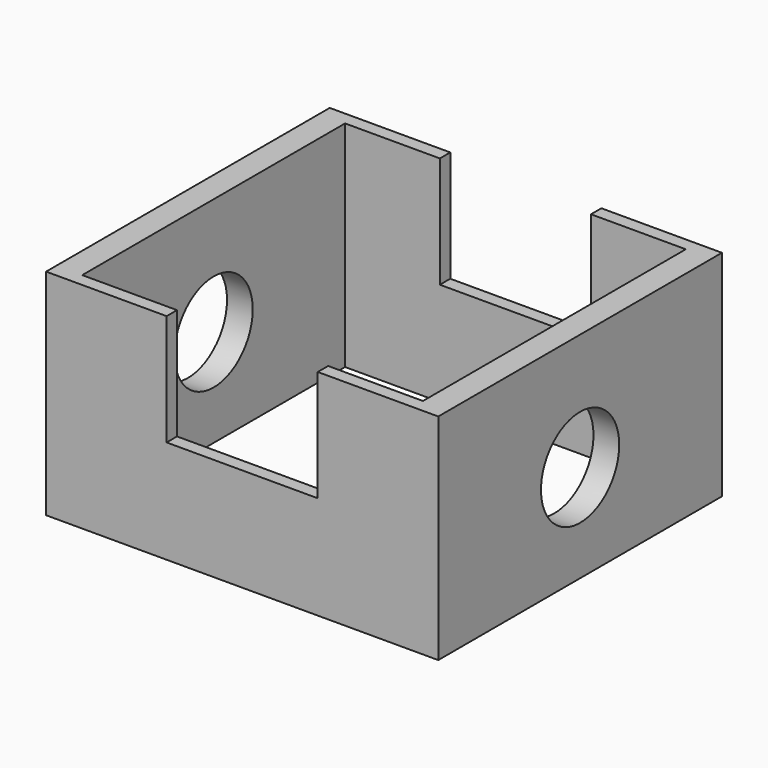
from build123d import *

# Parameters (mm, degrees)
F0_W     = 185.788676
F0_H     = 167.966946
F1_DEPTH = 101.6
F2_W     = 71.583546
F2_H     = 55.591479
F3_DEPTH = 635
F4_W     = 161.412612
F4_H     = 155.637712
F5_DEPTH = 1270
F6_R     = 23.160944
F7_DEPTH = 635


with BuildPart() as f1:
    # F0 (on Top) → F1 (new body)
    with BuildSketch(Plane.XY):
        Rectangle(F0_W, F0_H)
    extrude(amount=F1_DEPTH)

    # F2 (on Front) → F3 (cut, symmetric)
    with BuildSketch(Plane.XZ):
        with Locations((0, 76.723866)):
            Rectangle(F2_W, F2_H)
    extrude(amount=F3_DEPTH, both=True, mode=Mode.SUBTRACT)

    # F4 (on face) → F5 (cut)
    with BuildSketch(Plane(origin=(0, 0, 0), x_dir=(1, 0, 0), z_dir=(0, 0, -1))):
        Rectangle(F4_W, F4_H)
    extrude(amount=-F5_DEPTH, mode=Mode.SUBTRACT)

    # F6 (on Right) → F7 (cut, symmetric)
    with BuildSketch(Plane.YZ):
        with Locations((0, 46.262771)):
            Circle(F6_R)
    extrude(amount=F7_DEPTH, both=True, mode=Mode.SUBTRACT)


solid = f1.part
